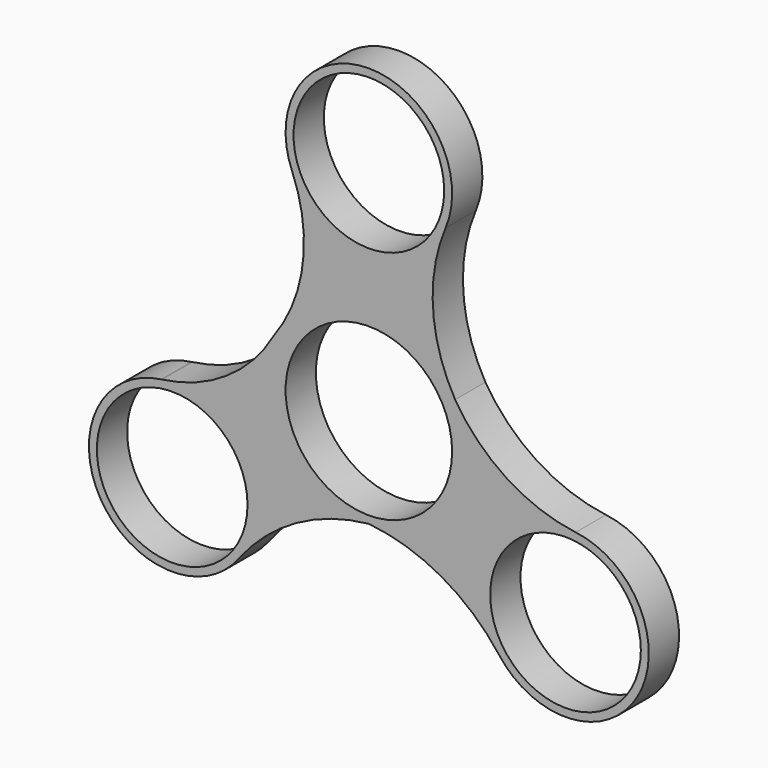
from build123d import *

# Parameters (mm, degrees)
F0_R     = 9.95
F0_R_2   = 11
F1_DEPTH = 5


with BuildPart() as f1:
    # F0 (on Front) → F1 (new body)
    with BuildSketch(Plane.XZ):
        with BuildLine():
            ThreePointArc((11.403166, 6.1675), (8.4716, 15.806283), (10.142259, 25.741529))
            ThreePointArc((10.142259, 25.741529), (0.031956, 40.999954), (-10.166831, 25.80053))
            ThreePointArc((-10.166831, 25.80053), (-10.147228, 25.753848), (-10.127742, 25.707117))
            ThreePointArc((-10.127742, 25.707117), (-8.722277, 15.448803), (-12.554798, 5.830064))
            ThreePointArc((-12.554798, 5.830064), (-18.778187, -0.85891), (-27.326888, -4.082677))
            ThreePointArc((-27.326888, -4.082677), (-27.379824, -4.089537), (-27.432778, -4.096255))
            ThreePointArc((-27.432778, -4.096255), (-35.48024, -20.546163), (-17.199146, -21.62444))
            ThreePointArc((-17.199146, -21.62444), (-9.605112, -15.008952), (0, -11.979781))
            ThreePointArc((0, -11.979781), (9.605112, -15.008952), (17.199146, -21.62444))
            ThreePointArc((17.199146, -21.62444), (35.507042, -20.5), (27.326888, -4.082677))
            ThreePointArc((27.326888, -4.082677), (18.207455, -0.755884), (11.403166, 6.1675))
        make_face()
        with Locations((-25.980762, -15)):
            Circle(F0_R, mode=Mode.SUBTRACT)
        with Locations((25.980762, -15)):
            Circle(F0_R, mode=Mode.SUBTRACT)
        Circle(F0_R_2, mode=Mode.SUBTRACT)
        with Locations((0, 30)):
            Circle(F0_R, mode=Mode.SUBTRACT)
    extrude(amount=F1_DEPTH)


solid = f1.part
